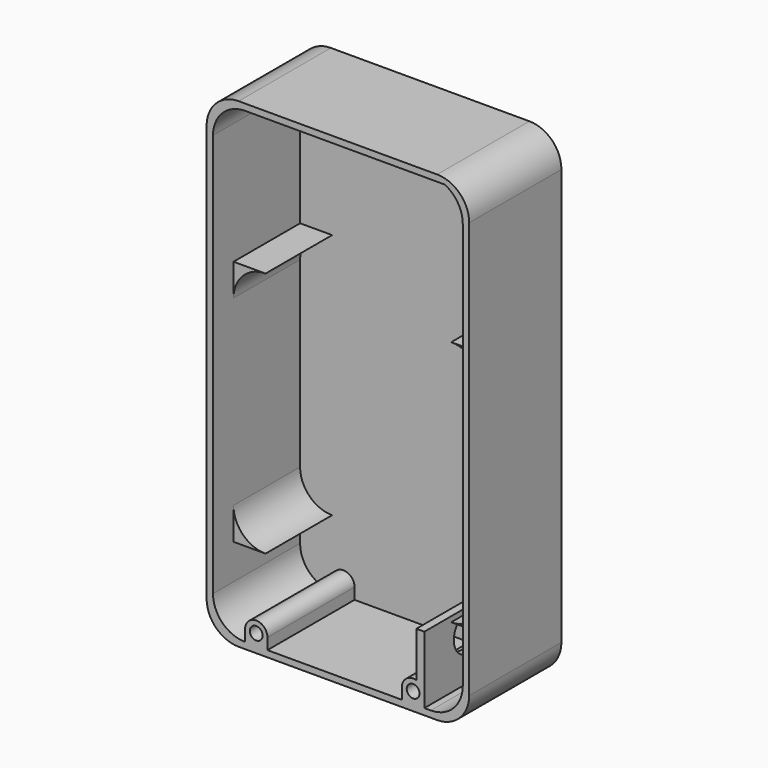
from build123d import *

# Parameters (mm, degrees)
CYLINDER022_R             = 2
CYLINDER022_DEPTH         = 8
CYLINDER026_R             = 7
CYLINDER026_DEPTH         = 5
CYLINDER025_R             = 6
CYLINDER025_DEPTH         = 20
FUSION007_PLACEMENT_ANGLE = 270
CYLINDER024_R             = 2
CYLINDER024_DEPTH         = 8
CYLINDER023_R             = 3.5
CYLINDER023_DEPTH         = 34
BOX022_W                  = 7
BOX022_H                  = 34
BOX022_DEPTH              = 3.5
BOX023_W                  = 7
BOX023_H                  = 34
BOX023_DEPTH              = 3.5
BOX024_W                  = 2.5
BOX024_H                  = 34
BOX024_DEPTH              = 17.5
CYLINDER017_W             = 10
CYLINDER017_H             = 26
CYLINDER017_ANGLE         = 90
BOX018_W                  = 10
BOX018_H                  = 26
BOX018_DEPTH              = 10
CUT018_PLACEMENT_ANGLE    = 180
CYLINDER018_W             = 10
CYLINDER018_H             = 26
CYLINDER018_ANGLE         = 90
BOX019_W                  = 10
BOX019_H                  = 26
BOX019_DEPTH              = 10
CUT019_PLACEMENT_ANGLE    = 270
CYLINDER019_W             = 10
CYLINDER019_H             = 26
CYLINDER019_ANGLE         = 90
BOX020_W                  = 10
BOX020_H                  = 26
BOX020_DEPTH              = 10
CYLINDER020_W             = 10
CYLINDER020_H             = 26
CYLINDER020_ANGLE         = 90
BOX021_W                  = 10
BOX021_H                  = 26
BOX021_DEPTH              = 10
CUT021_PLACEMENT_ANGLE    = 270
CYLINDER014_W             = 10
CYLINDER014_H             = 34
CYLINDER014_ANGLE         = 90
BOX015_W                  = 10
BOX015_H                  = 34
BOX015_DEPTH              = 10
CUT013_PLACEMENT_ANGLE    = 180
CYLINDER015_W             = 10
CYLINDER015_H             = 34
CYLINDER015_ANGLE         = 90
BOX016_W                  = 10
BOX016_H                  = 34
BOX016_DEPTH              = 10
CUT014_PLACEMENT_ANGLE    = 180
CYLINDER016_W             = 10
CYLINDER016_H             = 34
CYLINDER016_ANGLE         = 90
BOX017_W                  = 10
BOX017_H                  = 34
BOX017_DEPTH              = 10
CUT015_PITCH_ANGLE        = -90
CUT015_PLACEMENT_ANGLE    = 180
CYLINDER013_W             = 10
CYLINDER013_H             = 34
CYLINDER013_ANGLE         = 90
BOX013_W                  = 10
BOX013_H                  = 34
BOX013_DEPTH              = 10
CUT012_PITCH_ANGLE        = 90
CUT012_PLACEMENT_ANGLE    = -180
BOX014_W                  = 78
BOX014_H                  = 34
BOX014_DEPTH              = 146
CYLINDER009_W             = 10
CYLINDER009_H             = 36
CYLINDER009_ANGLE         = 90
BOX009_W                  = 10
BOX009_H                  = 36
BOX009_DEPTH              = 10
CUT007_PLACEMENT_ANGLE    = 180
CYLINDER010_W             = 10
CYLINDER010_H             = 36
CYLINDER010_ANGLE         = 90
BOX010_W                  = 10
BOX010_H                  = 36
BOX010_DEPTH              = 10
CUT008_PLACEMENT_ANGLE    = 180
CYLINDER011_W             = 10
CYLINDER011_H             = 36
CYLINDER011_ANGLE         = 90
BOX011_W                  = 10
BOX011_H                  = 36
BOX011_DEPTH              = 10
CUT009_PITCH_ANGLE        = -90
CUT009_PLACEMENT_ANGLE    = -180
CYLINDER008_W             = 10
CYLINDER008_H             = 36
CYLINDER008_ANGLE         = 90
BOX007_W                  = 10
BOX007_H                  = 36
BOX007_DEPTH              = 10
CUT006_PITCH_ANGLE        = 90
CUT006_PLACEMENT_ANGLE    = -180
BOX008_W                  = 82
BOX008_H                  = 36
BOX008_DEPTH              = 150
CYLINDER021_R             = 3.5
CYLINDER021_DEPTH         = 34


with BuildPart() as cylinder022:
    # Cylinder022 → Cylinder022 (new body)
    with BuildSketch(Plane(origin=(13.5, -2, 3.5), x_dir=(1, 0, 0), z_dir=(0, -1, 0))):
        Circle(CYLINDER022_R)
    extrude(amount=CYLINDER022_DEPTH)


with BuildPart() as cylinder026:
    # Cylinder026 → Cylinder026 (new body)
    with BuildSketch(Plane.XY):
        Circle(CYLINDER026_R)
    extrude(amount=CYLINDER026_DEPTH)


with BuildPart() as powerswitch:
    # Cylinder025 → Cylinder025 (new body)
    with BuildSketch(Plane.XY):
        Circle(CYLINDER025_R)
    extrude(amount=CYLINDER025_DEPTH)

    # Fusion007: union Cylinder026
    add(cylinder026.part)


with BuildPart() as powerswitch_1:
    # Fusion007 placement: moved
    add(powerswitch.part.moved(Location((71, 7.5, 14))).rotate(Axis((71, 7.5, 14), (0, 1, 0)), FUSION007_PLACEMENT_ANGLE))


with BuildPart() as basecuts:
    # Cylinder024 → Cylinder024 (new body)
    with BuildSketch(Plane(origin=(62.5, -2, 3.5), x_dir=(1, 0, 0), z_dir=(0, -1, 0))):
        Circle(CYLINDER024_R)
    extrude(amount=CYLINDER024_DEPTH)

    # Fusion010: union Cylinder022, powerSwitch
    add(cylinder022.part)
    add(powerswitch_1.part)


with BuildPart() as cylinder023:
    # Cylinder023 → Cylinder023 (new body)
    with BuildSketch(Plane(origin=(62.5, 24, 3.5), x_dir=(1, 0, 0), z_dir=(0, -1, 0))):
        Circle(CYLINDER023_R)
    extrude(amount=CYLINDER023_DEPTH)


with BuildPart() as cube017:
    # Box022 → Box022 (new body)
    with BuildSketch(Plane(origin=(10, 24, 3.5), x_dir=(1, 0, 0), z_dir=(0, 0, -1))):
        with Locations((3.5, 17)):
            Rectangle(BOX022_W, BOX022_H)
    extrude(amount=BOX022_DEPTH)


with BuildPart() as cube018:
    # Box023 → Box023 (new body)
    with BuildSketch(Plane(origin=(59, 24, 3.5), x_dir=(1, 0, 0), z_dir=(0, 0, -1))):
        with Locations((3.5, 17)):
            Rectangle(BOX023_W, BOX023_H)
    extrude(amount=BOX023_DEPTH)


with BuildPart() as cube019:
    # Box024 → Box024 (new body)
    with BuildSketch(Plane(origin=(63.5, 24, 21), x_dir=(1, 0, 0), z_dir=(0, 0, -1))):
        with Locations((1.25, 17)):
            Rectangle(BOX024_W, BOX024_H)
    extrude(amount=BOX024_DEPTH)


with BuildPart() as cylinder017:
    # Cylinder017 → Cylinder017 (revolve)
    with BuildSketch(Plane(origin=(0, 26, 0), x_dir=(1, 0, 0), z_dir=(0, 0, -1))):
        with Locations((5, 13)):
            Rectangle(CYLINDER017_W, CYLINDER017_H)
    revolve(axis=Axis((0, 26, 0), (0, -1, 0)), revolution_arc=CYLINDER017_ANGLE)


with BuildPart() as batterysupport:
    # Box018 → Box018 (new body)
    with BuildSketch(Plane(origin=(10, 26, 0), x_dir=(-1, 0, 0), z_dir=(0, 0, 1))):
        with Locations((5, 13)):
            Rectangle(BOX018_W, BOX018_H)
    extrude(amount=BOX018_DEPTH)

    # Cut018: cut Cylinder017
    add(cylinder017.part, mode=Mode.SUBTRACT)


with BuildPart() as batterysupport_1:
    # Cut018 placement: moved
    add(batterysupport.part.moved(Location((10, -2, 31))).rotate(Axis((10, -2, 31), (0, 1, 0)), CUT018_PLACEMENT_ANGLE))


with BuildPart() as cylinder018:
    # Cylinder018 → Cylinder018 (revolve)
    with BuildSketch(Plane(origin=(0, 26, 0), x_dir=(1, 0, 0), z_dir=(0, 0, -1))):
        with Locations((5, 13)):
            Rectangle(CYLINDER018_W, CYLINDER018_H)
    revolve(axis=Axis((0, 26, 0), (0, -1, 0)), revolution_arc=CYLINDER018_ANGLE)


with BuildPart() as batterysupport001:
    # Box019 → Box019 (new body)
    with BuildSketch(Plane(origin=(10, 26, 0), x_dir=(-1, 0, 0), z_dir=(0, 0, 1))):
        with Locations((5, 13)):
            Rectangle(BOX019_W, BOX019_H)
    extrude(amount=BOX019_DEPTH)

    # Cut019: cut Cylinder018
    add(cylinder018.part, mode=Mode.SUBTRACT)


with BuildPart() as batterysupport001_1:
    # Cut019 placement: moved
    add(batterysupport001.part.moved(Location((68, -2, 31))).rotate(Axis((68, -2, 31), (0, -1, 0)), CUT019_PLACEMENT_ANGLE))


with BuildPart() as cylinder019:
    # Cylinder019 → Cylinder019 (revolve)
    with BuildSketch(Plane(origin=(0, 26, 0), x_dir=(1, 0, 0), z_dir=(0, 0, -1))):
        with Locations((5, 13)):
            Rectangle(CYLINDER019_W, CYLINDER019_H)
    revolve(axis=Axis((0, 26, 0), (0, -1, 0)), revolution_arc=CYLINDER019_ANGLE)


with BuildPart() as batterysupport002:
    # Box020 → Box020 (new body)
    with BuildSketch(Plane(origin=(10, 26, 0), x_dir=(-1, 0, 0), z_dir=(0, 0, 1))):
        with Locations((5, 13)):
            Rectangle(BOX020_W, BOX020_H)
    extrude(amount=BOX020_DEPTH)

    # Cut020: cut Cylinder019
    add(cylinder019.part, mode=Mode.SUBTRACT)


with BuildPart() as batterysupport002_1:
    # Cut020 placement: moved
    add(batterysupport002.part.moved(Location((68, -2, 88))))


with BuildPart() as cylinder020:
    # Cylinder020 → Cylinder020 (revolve)
    with BuildSketch(Plane(origin=(0, 26, 0), x_dir=(1, 0, 0), z_dir=(0, 0, -1))):
        with Locations((5, 13)):
            Rectangle(CYLINDER020_W, CYLINDER020_H)
    revolve(axis=Axis((0, 26, 0), (0, -1, 0)), revolution_arc=CYLINDER020_ANGLE)


with BuildPart() as batterysupport003:
    # Box021 → Box021 (new body)
    with BuildSketch(Plane(origin=(10, 26, 0), x_dir=(-1, 0, 0), z_dir=(0, 0, 1))):
        with Locations((5, 13)):
            Rectangle(BOX021_W, BOX021_H)
    extrude(amount=BOX021_DEPTH)

    # Cut021: cut Cylinder020
    add(cylinder020.part, mode=Mode.SUBTRACT)


with BuildPart() as batterysupport003_1:
    # Cut021 placement: moved
    add(batterysupport003.part.moved(Location((10, -2, 88))).rotate(Axis((10, -2, 88), (0, 1, 0)), CUT021_PLACEMENT_ANGLE))


with BuildPart() as cylinder014:
    # Cylinder014 → Cylinder014 (revolve)
    with BuildSketch(Plane(origin=(0, 26, 0), x_dir=(1, 0, 0), z_dir=(0, 0, -1))):
        with Locations((5, 17)):
            Rectangle(CYLINDER014_W, CYLINDER014_H)
    revolve(axis=Axis((0, 26, 0), (0, -1, 0)), revolution_arc=CYLINDER014_ANGLE)


with BuildPart() as cut013:
    # Box015 → Box015 (new body)
    with BuildSketch(Plane(origin=(0, -8, 0), x_dir=(1, 0, 0), z_dir=(0, 0, 1))):
        with Locations((5, 17)):
            Rectangle(BOX015_W, BOX015_H)
    extrude(amount=BOX015_DEPTH)

    # Cut013: cut Cylinder014
    add(cylinder014.part, mode=Mode.SUBTRACT)


with BuildPart() as cut013_1:
    # Cut013 placement: moved
    add(cut013.part.moved(Location((70, 18, 8))).rotate(Axis((70, 18, 8), (1, 0, 0)), CUT013_PLACEMENT_ANGLE))


with BuildPart() as cylinder015:
    # Cylinder015 → Cylinder015 (revolve)
    with BuildSketch(Plane(origin=(0, 26, 0), x_dir=(1, 0, 0), z_dir=(0, 0, -1))):
        with Locations((5, 17)):
            Rectangle(CYLINDER015_W, CYLINDER015_H)
    revolve(axis=Axis((0, 26, 0), (0, -1, 0)), revolution_arc=CYLINDER015_ANGLE)


with BuildPart() as cut014:
    # Box016 → Box016 (new body)
    with BuildSketch(Plane(origin=(0, -8, 0), x_dir=(1, 0, 0), z_dir=(0, 0, 1))):
        with Locations((5, 17)):
            Rectangle(BOX016_W, BOX016_H)
    extrude(amount=BOX016_DEPTH)

    # Cut014: cut Cylinder015
    add(cylinder015.part, mode=Mode.SUBTRACT)


with BuildPart() as cut014_1:
    # Cut014 placement: moved
    add(cut014.part.moved(Location((12, 18, 134))).rotate(Axis((12, 18, 134), (0, 0, 1)), CUT014_PLACEMENT_ANGLE))


with BuildPart() as cylinder016:
    # Cylinder016 → Cylinder016 (revolve)
    with BuildSketch(Plane(origin=(0, 26, 0), x_dir=(1, 0, 0), z_dir=(0, 0, -1))):
        with Locations((5, 17)):
            Rectangle(CYLINDER016_W, CYLINDER016_H)
    revolve(axis=Axis((0, 26, 0), (0, -1, 0)), revolution_arc=CYLINDER016_ANGLE)


with BuildPart() as cut015:
    # Box017 → Box017 (new body)
    with BuildSketch(Plane(origin=(0, -8, 0), x_dir=(1, 0, 0), z_dir=(0, 0, 1))):
        with Locations((5, 17)):
            Rectangle(BOX017_W, BOX017_H)
    extrude(amount=BOX017_DEPTH)

    # Cut015: cut Cylinder016
    add(cylinder016.part, mode=Mode.SUBTRACT)


with BuildPart() as cut015_1:
    # Cut015 pitch: moved
    add(cut015.part.rotate(Axis((0, 0, 0), (0, 1, 0)), CUT015_PITCH_ANGLE))


with BuildPart() as cut015_2:
    # Cut015 placement: moved
    add(cut015_1.part.moved(Location((70, 18, 135))).rotate(Axis((70, 18, 135), (0, 0, 1)), CUT015_PLACEMENT_ANGLE))


with BuildPart() as cylinder013:
    # Cylinder013 → Cylinder013 (revolve)
    with BuildSketch(Plane(origin=(0, 26, 0), x_dir=(1, 0, 0), z_dir=(0, 0, -1))):
        with Locations((5, 17)):
            Rectangle(CYLINDER013_W, CYLINDER013_H)
    revolve(axis=Axis((0, 26, 0), (0, -1, 0)), revolution_arc=CYLINDER013_ANGLE)


with BuildPart() as fusion006:
    # Box013 → Box013 (new body)
    with BuildSketch(Plane(origin=(0, -8, 0), x_dir=(1, 0, 0), z_dir=(0, 0, 1))):
        with Locations((5, 17)):
            Rectangle(BOX013_W, BOX013_H)
    extrude(amount=BOX013_DEPTH)

    # Cut012: cut Cylinder013
    add(cylinder013.part, mode=Mode.SUBTRACT)


with BuildPart() as fusion006_1:
    # Cut012 pitch: moved
    add(fusion006.part.rotate(Axis((0, 0, 0), (0, 1, 0)), CUT012_PITCH_ANGLE))


with BuildPart() as fusion006_2:
    # Cut012 placement: moved
    add(fusion006_1.part.moved(Location((12, 18, 8))).rotate(Axis((12, 18, 8), (0, 0, 1)), CUT012_PLACEMENT_ANGLE))

    # Fusion006: union Cut013, Cut014, Cut015
    add(cut013_1.part)
    add(cut014_1.part)
    add(cut015_2.part)


with BuildPart() as obj1:
    # Box014 → Box014 (new body)
    with BuildSketch(Plane(origin=(80, 26, -2), x_dir=(-1, 0, 0), z_dir=(0, 0, 1))):
        with Locations((39, 17)):
            Rectangle(BOX014_W, BOX014_H)
    extrude(amount=BOX014_DEPTH)

    # Cut016: cut Fusion006
    add(fusion006_2.part, mode=Mode.SUBTRACT)


with BuildPart() as obj1_1:
    # Cut016 placement: moved
    add(obj1.part.moved(Location((-2, -2, 2))))


with BuildPart() as cylinder009:
    # Cylinder009 → Cylinder009 (revolve)
    with BuildSketch(Plane(origin=(0, 26, 0), x_dir=(1, 0, 0), z_dir=(0, 0, -1))):
        with Locations((5, 18)):
            Rectangle(CYLINDER009_W, CYLINDER009_H)
    revolve(axis=Axis((0, 26, 0), (0, -1, 0)), revolution_arc=CYLINDER009_ANGLE)


with BuildPart() as cut007:
    # Box009 → Box009 (new body)
    with BuildSketch(Plane(origin=(0, -10, 0), x_dir=(1, 0, 0), z_dir=(0, 0, 1))):
        with Locations((5, 18)):
            Rectangle(BOX009_W, BOX009_H)
    extrude(amount=BOX009_DEPTH)

    # Cut007: cut Cylinder009
    add(cylinder009.part, mode=Mode.SUBTRACT)


with BuildPart() as cut007_1:
    # Cut007 placement: moved
    add(cut007.part.moved(Location((70, 18, 8))).rotate(Axis((70, 18, 8), (1, 0, 0)), CUT007_PLACEMENT_ANGLE))


with BuildPart() as cylinder010:
    # Cylinder010 → Cylinder010 (revolve)
    with BuildSketch(Plane(origin=(0, 26, 0), x_dir=(1, 0, 0), z_dir=(0, 0, -1))):
        with Locations((5, 18)):
            Rectangle(CYLINDER010_W, CYLINDER010_H)
    revolve(axis=Axis((0, 26, 0), (0, -1, 0)), revolution_arc=CYLINDER010_ANGLE)


with BuildPart() as cut008:
    # Box010 → Box010 (new body)
    with BuildSketch(Plane(origin=(0, -10, 0), x_dir=(1, 0, 0), z_dir=(0, 0, 1))):
        with Locations((5, 18)):
            Rectangle(BOX010_W, BOX010_H)
    extrude(amount=BOX010_DEPTH)

    # Cut008: cut Cylinder010
    add(cylinder010.part, mode=Mode.SUBTRACT)


with BuildPart() as cut008_1:
    # Cut008 placement: moved
    add(cut008.part.moved(Location((8, 18, 138))).rotate(Axis((8, 18, 138), (0, 0, 1)), CUT008_PLACEMENT_ANGLE))


with BuildPart() as cylinder011:
    # Cylinder011 → Cylinder011 (revolve)
    with BuildSketch(Plane(origin=(0, 26, 0), x_dir=(1, 0, 0), z_dir=(0, 0, -1))):
        with Locations((5, 18)):
            Rectangle(CYLINDER011_W, CYLINDER011_H)
    revolve(axis=Axis((0, 26, 0), (0, -1, 0)), revolution_arc=CYLINDER011_ANGLE)


with BuildPart() as cut009:
    # Box011 → Box011 (new body)
    with BuildSketch(Plane(origin=(0, -10, 0), x_dir=(1, 0, 0), z_dir=(0, 0, 1))):
        with Locations((5, 18)):
            Rectangle(BOX011_W, BOX011_H)
    extrude(amount=BOX011_DEPTH)

    # Cut009: cut Cylinder011
    add(cylinder011.part, mode=Mode.SUBTRACT)


with BuildPart() as cut009_1:
    # Cut009 pitch: moved
    add(cut009.part.rotate(Axis((0, 0, 0), (0, 1, 0)), CUT009_PITCH_ANGLE))


with BuildPart() as cut009_2:
    # Cut009 placement: moved
    add(cut009_1.part.moved(Location((70, 18, 138))).rotate(Axis((70, 18, 138), (0, 0, 1)), CUT009_PLACEMENT_ANGLE))


with BuildPart() as cylinder008:
    # Cylinder008 → Cylinder008 (revolve)
    with BuildSketch(Plane(origin=(0, 26, 0), x_dir=(1, 0, 0), z_dir=(0, 0, -1))):
        with Locations((5, 18)):
            Rectangle(CYLINDER008_W, CYLINDER008_H)
    revolve(axis=Axis((0, 26, 0), (0, -1, 0)), revolution_arc=CYLINDER008_ANGLE)


with BuildPart() as fusion005:
    # Box007 → Box007 (new body)
    with BuildSketch(Plane(origin=(0, -10, 0), x_dir=(1, 0, 0), z_dir=(0, 0, 1))):
        with Locations((5, 18)):
            Rectangle(BOX007_W, BOX007_H)
    extrude(amount=BOX007_DEPTH)

    # Cut006: cut Cylinder008
    add(cylinder008.part, mode=Mode.SUBTRACT)


with BuildPart() as fusion005_1:
    # Cut006 pitch: moved
    add(fusion005.part.rotate(Axis((0, 0, 0), (0, 1, 0)), CUT006_PITCH_ANGLE))


with BuildPart() as fusion005_2:
    # Cut006 placement: moved
    add(fusion005_1.part.moved(Location((8, 18, 8))).rotate(Axis((8, 18, 8), (0, 0, 1)), CUT006_PLACEMENT_ANGLE))

    # Fusion005: union Cut007, Cut008, Cut009
    add(cut007_1.part)
    add(cut008_1.part)
    add(cut009_2.part)


with BuildPart() as fusion005_3:
    # Fusion005 placement: moved
    add(fusion005_2.part.moved(Location((0, -2, 0))))


with BuildPart() as base:
    # Box008 → Box008 (new body)
    with BuildSketch(Plane(origin=(80, 26, -2), x_dir=(-1, 0, 0), z_dir=(0, 0, 1))):
        with Locations((41, 18)):
            Rectangle(BOX008_W, BOX008_H)
    extrude(amount=BOX008_DEPTH)

    # Cut010: cut Fusion005
    add(fusion005_3.part, mode=Mode.SUBTRACT)

    # Cut017: cut obj1
    add(obj1_1.part, mode=Mode.SUBTRACT)

    # Fusion008: union batterySupport, batterySupport001, batterySupport002, batterySupport003
    add(batterysupport_1.part)
    add(batterysupport001_1.part)
    add(batterysupport002_1.part)
    add(batterysupport003_1.part)


with BuildPart() as basecuts001:
    # Cylinder021 → Cylinder021 (new body)
    with BuildSketch(Plane(origin=(13.5, 24, 3.5), x_dir=(1, 0, 0), z_dir=(0, -1, 0))):
        Circle(CYLINDER021_R)
    extrude(amount=CYLINDER021_DEPTH)

    # Fusion009: union Cylinder023, Cube017, Cube018, Cube019, base
    add(cylinder023.part)
    add(cube017.part)
    add(cube018.part)
    add(cube019.part)
    add(base.part)

    # Cut022: cut baseCuts
    add(basecuts.part, mode=Mode.SUBTRACT)


solid = basecuts001.part
